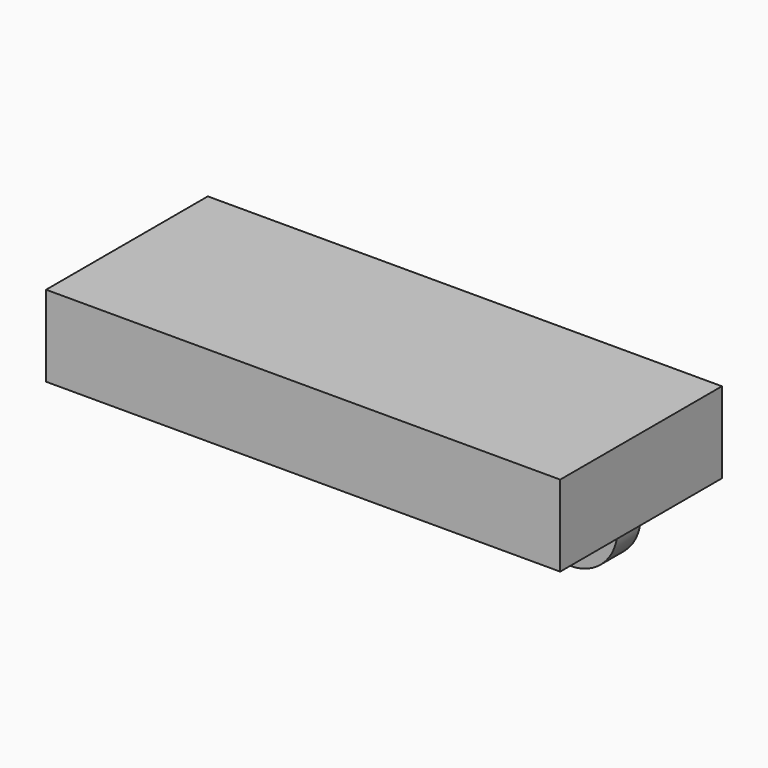
from build123d import *

# Parameters (mm, degrees)
F0_W     = 449.58
F0_H     = 176.784
F1_DEPTH = 70.866
F2_R     = 38.835317
F2_R_2   = 41.172166
F3_DEPTH = 25.4


with BuildPart() as f1:
    # F0 (on Top) → F1 (new body)
    with BuildSketch(Plane.XY):
        with Locations((-0.463787, -9.675345)):
            Rectangle(F0_W, F0_H)
    extrude(amount=F1_DEPTH)

    # F2 (on Front) → F3 (join)
    with BuildSketch(Plane.XZ):
        with Locations((-143.220037, 0)):
            Circle(F2_R)
        with Locations((175.135151, 0)):
            Circle(F2_R_2)
    extrude(amount=F3_DEPTH)


solid = f1.part
